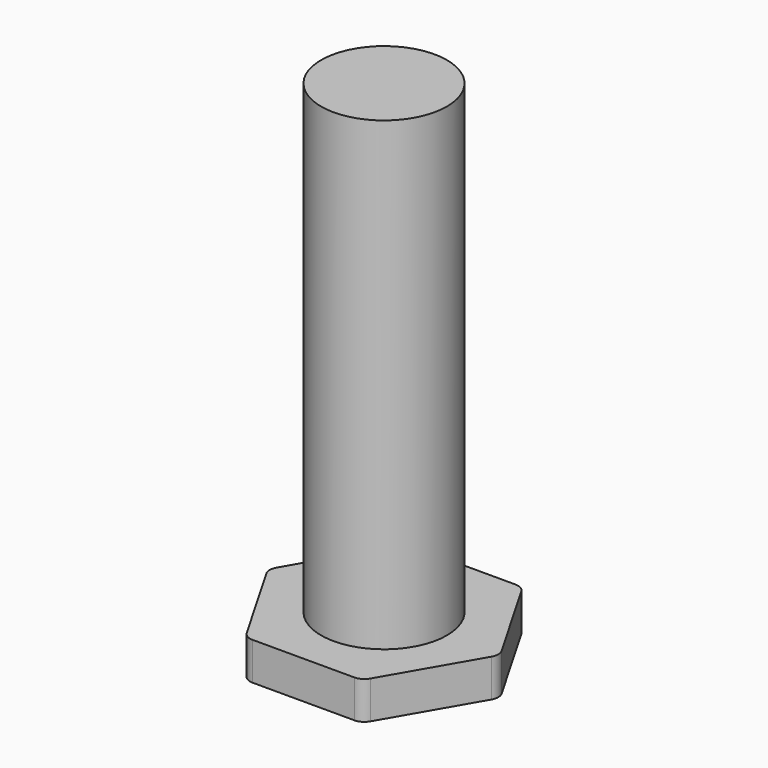
from build123d import *

# Parameters (mm, degrees)
EXTRUDE008_DEPTH = 1.5
CIRCLE_R         = 2.5
EXTRUDE007_DEPTH = 20


with BuildPart() as extrude008:
    # Polygon → Extrude008 (new body)
    with BuildSketch(Plane.XY):
        with BuildLine():
            Line((2.453739, 3.75), (4.474465, 0.25))
            ThreePointArc((4.474465, 0.25), (4.541452, 0), (4.474465, -0.25))
            Line((4.474465, -0.25), (2.453739, -3.75))
            ThreePointArc((2.453739, -3.75), (2.270726, -3.933013), (2.020726, -4))
            Line((2.020726, -4), (-2.020726, -4))
            ThreePointArc((-2.020726, -4), (-2.270726, -3.933013), (-2.453739, -3.75))
            Line((-2.453739, -3.75), (-4.474465, -0.25))
            ThreePointArc((-4.474465, -0.25), (-4.541452, 0), (-4.474465, 0.25))
            Line((-4.474465, 0.25), (-2.453739, 3.75))
            ThreePointArc((-2.453739, 3.75), (-2.270726, 3.933013), (-2.020726, 4))
            Line((-2.020726, 4), (2.020726, 4))
            ThreePointArc((2.020726, 4), (2.270726, 3.933013), (2.453739, 3.75))
        make_face()
    extrude(amount=EXTRUDE008_DEPTH)


with BuildPart() as vis:
    # Circle → Extrude007 (new body)
    with BuildSketch(Plane(origin=(0, 0, 0), x_dir=(1, 0, 0), z_dir=(0, 0, -1))):
        Circle(CIRCLE_R)
    extrude(amount=-EXTRUDE007_DEPTH)

    # Fusion004: union Extrude008
    add(extrude008.part)


with BuildPart() as vis_1:
    # Fusion004 placement: moved
    add(vis.part.moved(Location((25, 50, -5))))


solid = vis_1.part
